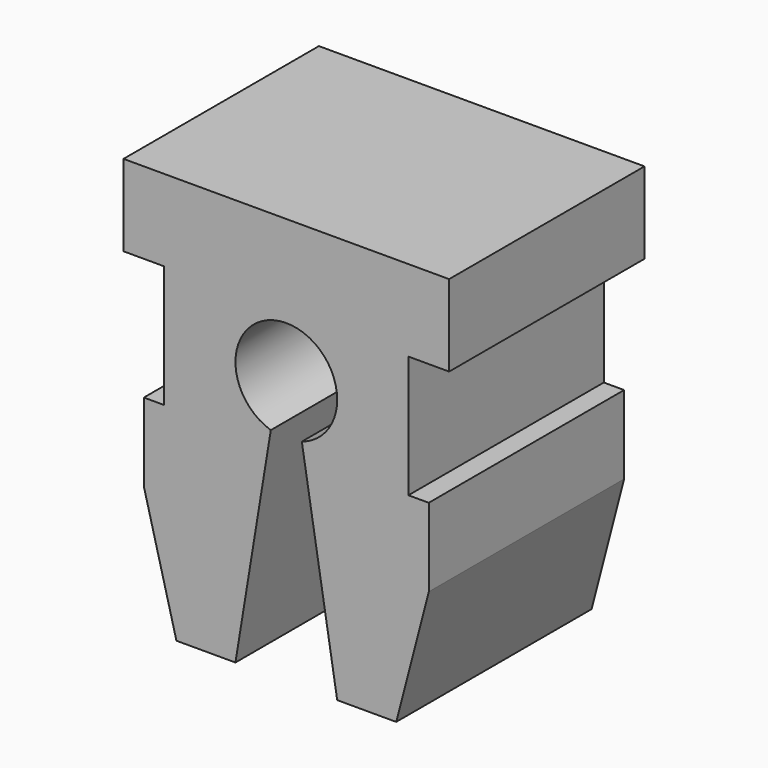
from build123d import *

# Parameters (mm, degrees)
F1_DEPTH = 6


with BuildPart() as f1:
    # F0 (on Front) → F1 (new body)
    with BuildSketch(Plane.XZ):
        with BuildLine():
            Line((4, 3.5), (-4, 3.5))
            Line((-4, 3.5), (-4, 1.5))
            Line((-4, 1.5), (-3, 1.5))
            Line((-3, 1.5), (-3, -1.5))
            Line((-3, -1.5), (-3.5, -1.5))
            Line((-3.5, -1.5), (-3.5, -3.423077))
            Line((-3.5, -3.423077), (-2.7, -6.5))
            Line((-2.7, -6.5), (-1.25, -6.5))
            Line((-1.25, -6.5), (-0.381107, -1.190486))
            ThreePointArc((-0.381107, -1.190486), (-0.736925, 1.009674), (1.25, 0))
            ThreePointArc((1.25, 0), (1.009674, -0.736925), (0.381107, -1.190486))
            Line((0.381107, -1.190486), (1.25, -6.5))
            Line((1.25, -6.5), (2.7, -6.5))
            Line((2.7, -6.5), (3.5, -3.423077))
            Line((3.5, -3.423077), (3.5, -1.5))
            Line((3.5, -1.5), (3, -1.5))
            Line((3, -1.5), (3, 1.5))
            Line((3, 1.5), (4, 1.5))
            Line((4, 1.5), (4, 3.5))
        make_face()
    extrude(amount=F1_DEPTH)


solid = f1.part
